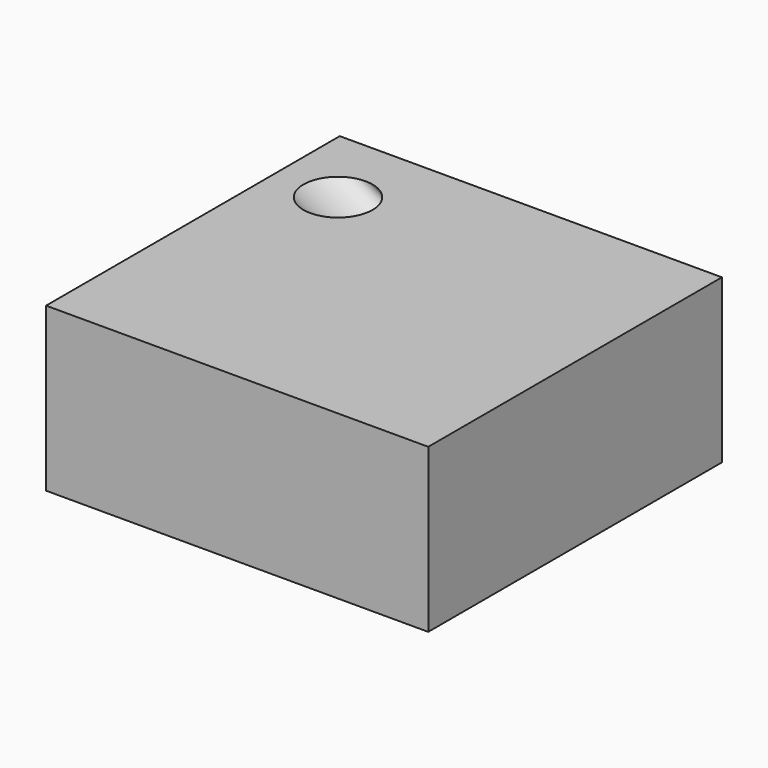
from build123d import *

# Parameters (mm, degrees)
F0_W     = 59.5742575824
F0_H     = 57.2216697037
F1_DEPTH = 25.4
F2_R     = 5.3798067946


with BuildPart() as f1:
    # F0 (on Top) → F1 (new body)
    with BuildSketch(Plane.XY):
        with Locations((29.7871287912, -28.6108348519)):
            Rectangle(F0_W, F0_H)
    extrude(amount=F1_DEPTH)

    # F5: sweep along a path in F4
    with BuildLine(Plane(origin=(0, -12.7, 0), x_dir=(-1, 0, 0), z_dir=(0, 1, 0))) as f5_path:
        Line((-9.8908608779, 25.9635094553), (-54.3997325003, 0))
    # F2 (on face) → F5 (sweep, cut)
    with BuildSketch(Plane.XY.offset(25.4)):
        with Locations((9.8908608779, -12.7)):
            Circle(F2_R)
    sweep(path=f5_path.line, mode=Mode.SUBTRACT)


solid = f1.part
